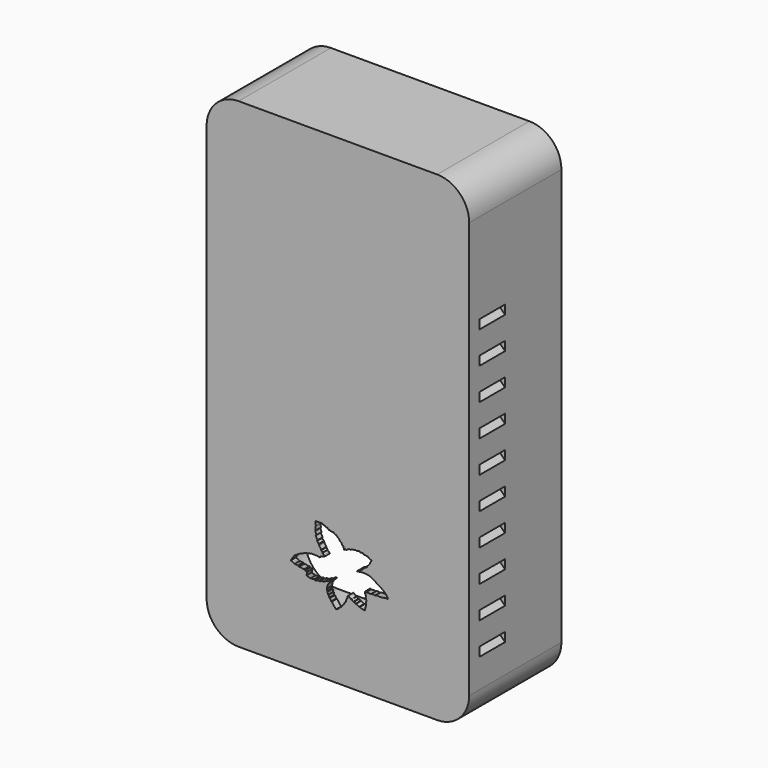
from build123d import *

# Parameters (mm, degrees)
BOX067_W                    = 35
BOX067_H                    = 1.8
BOX067_DEPTH                = 30
PAD_DEPTH                   = 3
BODY_PLACEMENT_ANGLE        = 90
BOX057_W                    = 20
BOX057_H                    = 10
BOX057_DEPTH                = 2
BOX057_PLACEMENT_ANGLE      = 45
BOX058_W                    = 20
BOX058_H                    = 10
BOX058_DEPTH                = 2
BOX058_PLACEMENT_ANGLE      = 45
BOX059_W                    = 20
BOX059_H                    = 10
BOX059_DEPTH                = 2
BOX059_PLACEMENT_ANGLE      = 45
BOX060_W                    = 10
BOX060_H                    = 10
BOX060_DEPTH                = 2
BOX060_PLACEMENT_ANGLE      = 45
BOX061_W                    = 20
BOX061_H                    = 10
BOX061_DEPTH                = 2
BOX061_PLACEMENT_ANGLE      = 45
BOX062_W                    = 20
BOX062_H                    = 10
BOX062_DEPTH                = 2
BOX062_PLACEMENT_ANGLE      = 45
BOX063_W                    = 20
BOX063_H                    = 10
BOX063_DEPTH                = 2
BOX063_PLACEMENT_ANGLE      = 45
BOX064_W                    = 10
BOX064_H                    = 10
BOX064_DEPTH                = 2
BOX064_PLACEMENT_ANGLE      = 45
BOX065_W                    = 20
BOX065_H                    = 10
BOX065_DEPTH                = 2
BOX065_PLACEMENT_ANGLE      = 45
BOX066_W                    = 20
BOX066_H                    = 10
BOX066_DEPTH                = 2
BOX066_PLACEMENT_ANGLE      = 45
BOX056_W                    = 20
BOX056_H                    = 10
BOX056_DEPTH                = 2
BOX056_PLACEMENT_ANGLE      = 45
FUSION037_PLACEMENT_ANGLE   = 180
BOX046_W                    = 20
BOX046_H                    = 10
BOX046_DEPTH                = 2
BOX046_PLACEMENT_ANGLE      = 45
BOX047_W                    = 20
BOX047_H                    = 10
BOX047_DEPTH                = 2
BOX047_PLACEMENT_ANGLE      = 45
BOX048_W                    = 20
BOX048_H                    = 10
BOX048_DEPTH                = 2
BOX048_PLACEMENT_ANGLE      = 45
BOX049_W                    = 10
BOX049_H                    = 10
BOX049_DEPTH                = 2
BOX049_PLACEMENT_ANGLE      = 45
BOX050_W                    = 20
BOX050_H                    = 10
BOX050_DEPTH                = 2
BOX050_PLACEMENT_ANGLE      = 45
BOX051_W                    = 20
BOX051_H                    = 10
BOX051_DEPTH                = 2
BOX051_PLACEMENT_ANGLE      = 45
BOX052_W                    = 20
BOX052_H                    = 10
BOX052_DEPTH                = 2
BOX052_PLACEMENT_ANGLE      = 45
BOX053_W                    = 20
BOX053_H                    = 10
BOX053_DEPTH                = 2
BOX053_PLACEMENT_ANGLE      = 45
BOX054_W                    = 20
BOX054_H                    = 10
BOX054_DEPTH                = 2
BOX054_PLACEMENT_ANGLE      = 45
BOX055_W                    = 20
BOX055_H                    = 10
BOX055_DEPTH                = 2
BOX055_PLACEMENT_ANGLE      = 45
BOX045_W                    = 20
BOX045_H                    = 10
BOX045_DEPTH                = 2
BOX045_PLACEMENT_ANGLE      = 45
BOX043_W                    = 5
BOX043_H                    = 5
BOX043_DEPTH                = 5
CYLINDER081_R               = 1.6
CYLINDER081_DEPTH           = 12
CYLINDER080_R               = 3.5
CYLINDER080_DEPTH           = 12
CYLINDER075_R               = 2.8
CYLINDER075_DEPTH           = 10
CYLINDER074_R               = 5.5
CYLINDER074_DEPTH           = 22
CYLINDER074_ROLL_ANGLE      = 90.312904
CYLINDER074_PITCH_ANGLE     = -60.355913
CYLINDER074_PLACEMENT_ANGLE = 179.461903
CYLINDER077_R               = 2.8
CYLINDER077_DEPTH           = 10
CYLINDER076_R               = 5.5
CYLINDER076_DEPTH           = 22
CYLINDER076_ROLL_ANGLE      = 90
CYLINDER076_PITCH_ANGLE     = -60
CYLINDER076_PLACEMENT_ANGLE = 180
CYLINDER079_R               = 2.8
CYLINDER079_DEPTH           = 10
CYLINDER078_R               = 5.5
CYLINDER078_DEPTH           = 22
CYLINDER078_ROLL_ANGLE      = 90
CYLINDER078_PITCH_ANGLE     = -60
CYLINDER078_PLACEMENT_ANGLE = 180
CYLINDER054_R               = 1.6
CYLINDER054_DEPTH           = 12
CYLINDER055_R               = 1.6
CYLINDER055_DEPTH           = 12
CYLINDER056_R               = 1.6
CYLINDER056_DEPTH           = 12
CYLINDER057_R               = 1.6
CYLINDER057_DEPTH           = 12
CYLINDER058_R               = 1.6
CYLINDER058_DEPTH           = 12
CYLINDER059_R               = 1.6
CYLINDER059_DEPTH           = 12
CYLINDER060_R               = 1.6
CYLINDER060_DEPTH           = 12
CYLINDER061_R               = 1.6
CYLINDER061_DEPTH           = 12
CYLINDER062_R               = 3.5
CYLINDER062_DEPTH           = 12
CYLINDER063_R               = 3.5
CYLINDER063_DEPTH           = 12
CYLINDER064_R               = 3.5
CYLINDER064_DEPTH           = 12
CYLINDER065_R               = 3.5
CYLINDER065_DEPTH           = 12
CYLINDER066_R               = 3.5
CYLINDER066_DEPTH           = 12
CYLINDER067_R               = 3.5
CYLINDER067_DEPTH           = 12
CYLINDER068_R               = 3.5
CYLINDER068_DEPTH           = 12
CYLINDER051_R               = 1.57
CYLINDER051_DEPTH           = 6
CYLINDER050_R               = 5.3
CYLINDER050_DEPTH           = 6
CYLINDER052_W               = 5.3
CYLINDER052_H               = 6
CYLINDER052_ANGLE           = 270
CYLINDER053_W               = 5.3
CYLINDER053_H               = 6
CYLINDER053_ANGLE           = 270
CYLINDER045_W               = 10
CYLINDER045_H               = 34
CYLINDER045_ANGLE           = 90
BOX035_W                    = 10
BOX035_H                    = 34
BOX035_DEPTH                = 10
CUT031_PLACEMENT_ANGLE      = 180
CYLINDER046_W               = 10
CYLINDER046_H               = 34
CYLINDER046_ANGLE           = 90
BOX036_W                    = 10
BOX036_H                    = 34
BOX036_DEPTH                = 10
CUT032_PLACEMENT_ANGLE      = 180
CYLINDER047_W               = 10
CYLINDER047_H               = 34
CYLINDER047_ANGLE           = 90
BOX037_W                    = 10
BOX037_H                    = 34
BOX037_DEPTH                = 10
CUT033_PITCH_ANGLE          = -90
CUT033_PLACEMENT_ANGLE      = -180
CYLINDER044_W               = 10
CYLINDER044_H               = 34
CYLINDER044_ANGLE           = 90
BOX033_W                    = 10
BOX033_H                    = 34
BOX033_DEPTH                = 10
CUT030_PITCH_ANGLE          = 90
CUT030_PLACEMENT_ANGLE      = -180
BOX034_W                    = 78
BOX034_H                    = 34
BOX034_DEPTH                = 146
CYLINDER041_W               = 10
CYLINDER041_H               = 36
CYLINDER041_ANGLE           = 90
BOX030_W                    = 10
BOX030_H                    = 36
BOX030_DEPTH                = 10
CUT026_PLACEMENT_ANGLE      = 180
CYLINDER042_W               = 10
CYLINDER042_H               = 36
CYLINDER042_ANGLE           = 90
BOX031_W                    = 10
BOX031_H                    = 36
BOX031_DEPTH                = 10
CUT027_PLACEMENT_ANGLE      = 180
CYLINDER043_W               = 10
CYLINDER043_H               = 36
CYLINDER043_ANGLE           = 90
BOX032_W                    = 10
BOX032_H                    = 36
BOX032_DEPTH                = 10
CUT028_PITCH_ANGLE          = -90
CUT028_PLACEMENT_ANGLE      = -180
CYLINDER040_W               = 10
CYLINDER040_H               = 36
CYLINDER040_ANGLE           = 90
BOX028_W                    = 10
BOX028_H                    = 36
BOX028_DEPTH                = 10
CUT025_PITCH_ANGLE          = 90
CUT025_PLACEMENT_ANGLE      = -180
BOX029_W                    = 82
BOX029_H                    = 36
BOX029_DEPTH                = 150
CUT035_PLACEMENT_ANGLE      = 180
CYLINDER048_R               = 1.57
CYLINDER048_DEPTH           = 6
CYLINDER049_R               = 5.3
CYLINDER049_DEPTH           = 6
CYLINDER069_R               = 3.5
CYLINDER069_DEPTH           = 12
CYLINDER073_R               = 2.8
CYLINDER073_DEPTH           = 10
CYLINDER072_R               = 5.5
CYLINDER072_DEPTH           = 22
CYLINDER072_ROLL_ANGLE      = 90
CYLINDER072_PITCH_ANGLE     = -60
CYLINDER072_PLACEMENT_ANGLE = 180


with BuildPart() as logobase:
    # Box067 → Box067 (new body)
    with BuildSketch(Plane(origin=(21.5, -44, 15.25), x_dir=(1, 0, 0), z_dir=(0, 0, 1))):
        with Locations((17.5, 0.9)):
            Rectangle(BOX067_W, BOX067_H)
    extrude(amount=BOX067_DEPTH)


with BuildPart() as logo001:
    # Sketch → Pad (new body)
    with BuildSketch(Plane.XY):
        Polygon((-15.066747, -2.987899), (-14.417461, -3.201938), (-14.138643, -3.358095), (-13.867326, -3.550643), (-13.410691, -3.571363), (-13.132099, -3.616994), (-12.816981, -3.623429), (-12.466181, -3.85302), (-11.870388, -3.85302), (-11.520385, -4.008358), (-11.138921, -4.05555), (-10.80982, -4.007881), (-10.571555, -4.299093), (-10.133842, -4.331365), (-9.89036, -4.3898), (-9.995555, -4.876968), (-10.089424, -5.363912), (-10.107024, -5.504714), (-9.778484, -5.639651), (-9.516561, -5.730218), (-9.249311, -5.762288), (-8.928614, -5.901257), (-8.543776, -5.863842), (-7.717882, -5.75845), (-7.372913, -5.972569), (-6.724874, -5.720376), (-6.270657, -5.694814), (-6.062229, -5.804927), (-5.350893, -5.48914), (-5.024015, -5.48914), (-4.801264, -5.531317), (-4.197354, -5.162479), (-3.751908, -4.972515), (-3.377141, -4.972515), (-2.818976, -4.454219), (-2.627606, -4.342587), (-2.151123, -4.357646), (-2.380419, -4.518009), (-3.185771, -5.42702), (-3.613178, -6.058241), (-3.711104, -6.645795), (-3.835143, -7.155008), (-3.758777, -7.508761), (-3.705962, -7.68135), (-3.53967, -7.852018), (-3.468499, -8.65617), (-3.272681, -8.566711), (-3.168228, -8.769092), (-3.070875, -9.320832), (-2.842071, -9.3355), (-2.45193, -10.098182), (-2.249525, -10.130449), (-0.96042, -11.875302), (-0.153326, -11.388908), (0.461347, -10.768889), (0.669802, -10.72613), (1.317242, -9.709977), (1.518256, -9.650808), (1.740221, -9.089367), (2.020942, -9.043669), (2.393061, -7.803274), (2.588394, -7.698711), (2.654196, -7.039452), (2.869633, -6.817487), (3.091598, -6.928469), (3.796664, -7.57478), (3.933761, -7.502968), (4.462561, -7.973012), (4.684525, -7.920785), (5.115399, -8.34513), (5.324308, -8.286375), (6.23668, -8.795643), (6.503619, -8.766309), (7.148016, -9.05537), (8.048827, -9.186133), (8.36847, -7.936621), (8.499233, -7.791329), (8.434769, -6.722055), (8.586207, -6.479883), (8.322964, -5.531781), (8.439835, -5.190909), (8.074257, -4.393068), (8.042361, -4.177775), (8.090203, -3.994378), (8.410305, -4.111031), (8.720134, -4.050195), (9.318169, -4.050195), (9.829643, -4.158874), (10.132648, -3.967503), (10.517489, -3.962302), (10.88308, -3.975359), (11.224485, -4.094309), (11.686072, -3.910075), (12.103889, -3.883962), (12.600047, -3.962302), (13.579306, -3.877433), (14.388827, -3.746865), (14.754416, -3.681581), (15.276689, -3.753394), (15.04319, -3.241373), (14.520919, -2.516721), (14.037817, -1.994449), (13.280153, -1.546255), (13.043842, -1.231174), (12.107354, -0.797939), (11.380431, -0.250878), (10.439567, 0.304889), (9.595256, 0.727998), (8.536237, 0.97306), (7.198999, 0.97306), (5.779317, 0.795578), (5.601857, 0.795578), (5.831776, 0.981815), (6.254031, 1.158201), (6.302136, 1.382691), (7.179873, 1.706855), (7.446816, 1.794377), (7.490577, 2.126962), (8.300576, 2.668386), (8.685751, 2.818538), (8.685751, 3.125373), (8.89508, 3.18684), (9.634921, 4.066021), (9.626381, 4.327431), (10.206841, 5.183136), (9.255181, 5.644445), (9.110202, 5.875968), (8.321324, 5.973361), (8.154661, 6.066253), (7.828613, 6.044872), (7.634715, 6.130877), (7.563913, 6.332674), (6.748318, 6.354958), (6.468188, 6.295259), (6.270422, 6.610614), (5.404532, 6.332674), (5.270907, 6.471644), (4.569418, 6.247245), (4.441608, 6.406517), (3.419502, 5.945882), (3.291921, 6.153201), (2.15964, 5.491375), (2.000163, 5.698694), (1.618501, 5.348278), (1.459844, 5.949736), (1.381651, 6.286506), (1.14534, 6.299634), (0.824344, 6.914785), (0.348522, 7.295443), (0.126706, 7.681261), (-0.415308, 8.181635), (-0.872658, 8.623701), (-1.120738, 8.643287), (-1.793164, 9.119861), (-2.314879, 9.121219), (-2.713213, 9.138457), (-2.884254, 9.341568), (-3.167788, 9.264536), (-3.707386, 9.827964), (-4.049155, 9.7003), (-4.429878, 10.011006), (-4.979099, 10.142511), (-5.430383, 10.448871), (-5.989475, 10.365602), (-7.326053, 10.410839), (-7.252544, 9.132535), (-7.368778, 8.769302), (-7.261404, 7.837619), (-7.411118, 7.604196), (-7.092165, 6.743021), (-7.100138, 6.559623), (-7.29151, 6.384199), (-6.741315, 5.299757), (-6.87495, 5.027319), (-6.315858, 4.420645), (-6.303963, 4.194629), (-6.054155, 4.0043), (-6.185007, 3.956717), (-5.542647, 3.076445), (-5.578333, 2.909907), (-5.126302, 2.410293), (-5.185779, 2.267546), (-4.733747, 1.898783), (-4.424462, 1.589498), (-5.31663, 1.292109), (-5.840036, 1.089884), (-6.04226, 0.792495), (-6.946324, 0.994719), (-7.196131, 0.887659), (-7.814701, 1.042302), (-8.02502, 0.969153), (-8.602671, 1.030419), (-8.834605, 0.872878), (-9.333486, 0.929767), (-9.661695, 0.649695), (-10.324935, 0.649695), (-11.010686, 0.32425), (-11.728333, 0.053139), (-12.297134, -0.13161), (-12.421175, -0.347049), (-13.295985, -0.817096), (-13.922715, -1.241445), (-14.170795, -1.59398), (-14.53862, -2.09216), (-14.783051, -2.457701), align=None)
    extrude(amount=PAD_DEPTH)


with BuildPart() as logo001_1:
    # Body placement: moved
    add(logo001.part.moved(Location((39.35, -43, 30))).rotate(Axis((39.35, -43, 30), (1, 0, 0)), BODY_PLACEMENT_ANGLE))

    # Fusion039: union logoBase
    add(logobase.part)


with BuildPart() as cube048:
    # Box057 → Box057 (new body)
    with BuildSketch(Plane.XY):
        with Locations((10, 5)):
            Rectangle(BOX057_W, BOX057_H)
    extrude(amount=BOX057_DEPTH)


with BuildPart() as cube048_1:
    # Box057 placement: moved
    add(cube048.part.moved(Location((0, 0, 10))).rotate(Axis((0, 0, 10), (0, -1, 0)), BOX057_PLACEMENT_ANGLE))


with BuildPart() as cube049:
    # Box058 → Box058 (new body)
    with BuildSketch(Plane.XY):
        with Locations((10, 5)):
            Rectangle(BOX058_W, BOX058_H)
    extrude(amount=BOX058_DEPTH)


with BuildPart() as cube049_1:
    # Box058 placement: moved
    add(cube049.part.moved(Location((0, 0, 20))).rotate(Axis((0, 0, 20), (0, -1, 0)), BOX058_PLACEMENT_ANGLE))


with BuildPart() as cube050:
    # Box059 → Box059 (new body)
    with BuildSketch(Plane.XY):
        with Locations((10, 5)):
            Rectangle(BOX059_W, BOX059_H)
    extrude(amount=BOX059_DEPTH)


with BuildPart() as cube050_1:
    # Box059 placement: moved
    add(cube050.part.moved(Location((0, 0, 30))).rotate(Axis((0, 0, 30), (0, -1, 0)), BOX059_PLACEMENT_ANGLE))


with BuildPart() as cube051:
    # Box060 → Box060 (new body)
    with BuildSketch(Plane.XY):
        with Locations((5, 5)):
            Rectangle(BOX060_W, BOX060_H)
    extrude(amount=BOX060_DEPTH)


with BuildPart() as cube051_1:
    # Box060 placement: moved
    add(cube051.part.moved(Location((0, 0, 40))).rotate(Axis((0, 0, 40), (0, -1, 0)), BOX060_PLACEMENT_ANGLE))


with BuildPart() as cube052:
    # Box061 → Box061 (new body)
    with BuildSketch(Plane.XY):
        with Locations((10, 5)):
            Rectangle(BOX061_W, BOX061_H)
    extrude(amount=BOX061_DEPTH)


with BuildPart() as cube052_1:
    # Box061 placement: moved
    add(cube052.part.moved(Location((0, 0, 50))).rotate(Axis((0, 0, 50), (0, -1, 0)), BOX061_PLACEMENT_ANGLE))


with BuildPart() as cube053:
    # Box062 → Box062 (new body)
    with BuildSketch(Plane.XY):
        with Locations((10, 5)):
            Rectangle(BOX062_W, BOX062_H)
    extrude(amount=BOX062_DEPTH)


with BuildPart() as cube053_1:
    # Box062 placement: moved
    add(cube053.part.moved(Location((0, 0, 60))).rotate(Axis((0, 0, 60), (0, -1, 0)), BOX062_PLACEMENT_ANGLE))


with BuildPart() as cube054:
    # Box063 → Box063 (new body)
    with BuildSketch(Plane.XY):
        with Locations((10, 5)):
            Rectangle(BOX063_W, BOX063_H)
    extrude(amount=BOX063_DEPTH)


with BuildPart() as cube054_1:
    # Box063 placement: moved
    add(cube054.part.moved(Location((0, 0, 70))).rotate(Axis((0, 0, 70), (0, -1, 0)), BOX063_PLACEMENT_ANGLE))


with BuildPart() as cube055:
    # Box064 → Box064 (new body)
    with BuildSketch(Plane.XY):
        with Locations((5, 5)):
            Rectangle(BOX064_W, BOX064_H)
    extrude(amount=BOX064_DEPTH)


with BuildPart() as cube055_1:
    # Box064 placement: moved
    add(cube055.part.moved(Location((0, 0, 80))).rotate(Axis((0, 0, 80), (0, -1, 0)), BOX064_PLACEMENT_ANGLE))


with BuildPart() as cube056:
    # Box065 → Box065 (new body)
    with BuildSketch(Plane.XY):
        with Locations((10, 5)):
            Rectangle(BOX065_W, BOX065_H)
    extrude(amount=BOX065_DEPTH)


with BuildPart() as cube056_1:
    # Box065 placement: moved
    add(cube056.part.moved(Location((0, 0, 90))).rotate(Axis((0, 0, 90), (0, -1, 0)), BOX065_PLACEMENT_ANGLE))


with BuildPart() as cube057:
    # Box066 → Box066 (new body)
    with BuildSketch(Plane.XY):
        with Locations((10, 5)):
            Rectangle(BOX066_W, BOX066_H)
    extrude(amount=BOX066_DEPTH)


with BuildPart() as cube057_1:
    # Box066 placement: moved
    add(cube057.part.moved(Location((0, 0, 1000))).rotate(Axis((0, 0, 1000), (0, -1, 0)), BOX066_PLACEMENT_ANGLE))


with BuildPart() as fusion037:
    # Box056 → Box056 (new body)
    with BuildSketch(Plane.XY):
        with Locations((10, 5)):
            Rectangle(BOX056_W, BOX056_H)
    extrude(amount=BOX056_DEPTH)


with BuildPart() as fusion037_1:
    # Box056 placement: moved
    add(fusion037.part.rotate(Axis((0, 0, 0), (0, -1, 0)), BOX056_PLACEMENT_ANGLE))

    # Fusion037: union Cube048, Cube049, Cube050, Cube051, Cube052, Cube053, Cube054, Cube055, Cube056, Cube057
    add(cube048_1.part)
    add(cube049_1.part)
    add(cube050_1.part)
    add(cube051_1.part)
    add(cube052_1.part)
    add(cube053_1.part)
    add(cube054_1.part)
    add(cube055_1.part)
    add(cube056_1.part)
    add(cube057_1.part)


with BuildPart() as fusion037_2:
    # Fusion037 placement: moved
    add(fusion037_1.part.moved(Location((82, 0, 15))).rotate(Axis((82, 0, 15), (0, 0, 1)), FUSION037_PLACEMENT_ANGLE))


with BuildPart() as cube037:
    # Box046 → Box046 (new body)
    with BuildSketch(Plane.XY):
        with Locations((10, 5)):
            Rectangle(BOX046_W, BOX046_H)
    extrude(amount=BOX046_DEPTH)


with BuildPart() as cube037_1:
    # Box046 placement: moved
    add(cube037.part.moved(Location((0, 0, 10))).rotate(Axis((0, 0, 10), (0, -1, 0)), BOX046_PLACEMENT_ANGLE))


with BuildPart() as cube038:
    # Box047 → Box047 (new body)
    with BuildSketch(Plane.XY):
        with Locations((10, 5)):
            Rectangle(BOX047_W, BOX047_H)
    extrude(amount=BOX047_DEPTH)


with BuildPart() as cube038_1:
    # Box047 placement: moved
    add(cube038.part.moved(Location((0, 0, 20))).rotate(Axis((0, 0, 20), (0, -1, 0)), BOX047_PLACEMENT_ANGLE))


with BuildPart() as cube039:
    # Box048 → Box048 (new body)
    with BuildSketch(Plane.XY):
        with Locations((10, 5)):
            Rectangle(BOX048_W, BOX048_H)
    extrude(amount=BOX048_DEPTH)


with BuildPart() as cube039_1:
    # Box048 placement: moved
    add(cube039.part.moved(Location((0, 0, 30))).rotate(Axis((0, 0, 30), (0, -1, 0)), BOX048_PLACEMENT_ANGLE))


with BuildPart() as cube040:
    # Box049 → Box049 (new body)
    with BuildSketch(Plane.XY):
        with Locations((5, 5)):
            Rectangle(BOX049_W, BOX049_H)
    extrude(amount=BOX049_DEPTH)


with BuildPart() as cube040_1:
    # Box049 placement: moved
    add(cube040.part.moved(Location((0, 0, 40))).rotate(Axis((0, 0, 40), (0, -1, 0)), BOX049_PLACEMENT_ANGLE))


with BuildPart() as cube041:
    # Box050 → Box050 (new body)
    with BuildSketch(Plane.XY):
        with Locations((10, 5)):
            Rectangle(BOX050_W, BOX050_H)
    extrude(amount=BOX050_DEPTH)


with BuildPart() as cube041_1:
    # Box050 placement: moved
    add(cube041.part.moved(Location((0, 0, 50))).rotate(Axis((0, 0, 50), (0, -1, 0)), BOX050_PLACEMENT_ANGLE))


with BuildPart() as cube042:
    # Box051 → Box051 (new body)
    with BuildSketch(Plane.XY):
        with Locations((10, 5)):
            Rectangle(BOX051_W, BOX051_H)
    extrude(amount=BOX051_DEPTH)


with BuildPart() as cube042_1:
    # Box051 placement: moved
    add(cube042.part.moved(Location((0, 0, 60))).rotate(Axis((0, 0, 60), (0, -1, 0)), BOX051_PLACEMENT_ANGLE))


with BuildPart() as cube043:
    # Box052 → Box052 (new body)
    with BuildSketch(Plane.XY):
        with Locations((10, 5)):
            Rectangle(BOX052_W, BOX052_H)
    extrude(amount=BOX052_DEPTH)


with BuildPart() as cube043_1:
    # Box052 placement: moved
    add(cube043.part.moved(Location((0, 0, 70))).rotate(Axis((0, 0, 70), (0, -1, 0)), BOX052_PLACEMENT_ANGLE))


with BuildPart() as cube044:
    # Box053 → Box053 (new body)
    with BuildSketch(Plane.XY):
        with Locations((10, 5)):
            Rectangle(BOX053_W, BOX053_H)
    extrude(amount=BOX053_DEPTH)


with BuildPart() as cube044_1:
    # Box053 placement: moved
    add(cube044.part.moved(Location((0, 0, 80))).rotate(Axis((0, 0, 80), (0, -1, 0)), BOX053_PLACEMENT_ANGLE))


with BuildPart() as cube045:
    # Box054 → Box054 (new body)
    with BuildSketch(Plane.XY):
        with Locations((10, 5)):
            Rectangle(BOX054_W, BOX054_H)
    extrude(amount=BOX054_DEPTH)


with BuildPart() as cube045_1:
    # Box054 placement: moved
    add(cube045.part.moved(Location((0, 0, 90))).rotate(Axis((0, 0, 90), (0, -1, 0)), BOX054_PLACEMENT_ANGLE))


with BuildPart() as cube046:
    # Box055 → Box055 (new body)
    with BuildSketch(Plane.XY):
        with Locations((10, 5)):
            Rectangle(BOX055_W, BOX055_H)
    extrude(amount=BOX055_DEPTH)


with BuildPart() as cube046_1:
    # Box055 placement: moved
    add(cube046.part.moved(Location((0, 0, 1000))).rotate(Axis((0, 0, 1000), (0, -1, 0)), BOX055_PLACEMENT_ANGLE))


with BuildPart() as vents:
    # Box045 → Box045 (new body)
    with BuildSketch(Plane.XY):
        with Locations((10, 5)):
            Rectangle(BOX045_W, BOX045_H)
    extrude(amount=BOX045_DEPTH)


with BuildPart() as vents_1:
    # Box045 placement: moved
    add(vents.part.rotate(Axis((0, 0, 0), (0, -1, 0)), BOX045_PLACEMENT_ANGLE))

    # Fusion036: union Cube037, Cube038, Cube039, Cube040, Cube041, Cube042, Cube043, Cube044, Cube045, Cube046
    add(cube037_1.part)
    add(cube038_1.part)
    add(cube039_1.part)
    add(cube040_1.part)
    add(cube041_1.part)
    add(cube042_1.part)
    add(cube043_1.part)
    add(cube044_1.part)
    add(cube045_1.part)
    add(cube046_1.part)


with BuildPart() as vents_2:
    # Fusion036 placement: moved
    add(vents_1.part.moved(Location((-4, -10, 15))))

    # Fusion038: union Fusion037
    add(fusion037_2.part)


with BuildPart() as vents_3:
    # Fusion038 placement: moved
    add(vents_2.part.moved(Location((0, -32, 0))))


with BuildPart() as lightcut:
    # Box043 → Box043 (new body)
    with BuildSketch(Plane(origin=(54.5, -16, -6), x_dir=(1, 0, 0), z_dir=(0, 0, 1))):
        with Locations((2.5, 2.5)):
            Rectangle(BOX043_W, BOX043_H)
    extrude(amount=BOX043_DEPTH)


with BuildPart() as m2heatset009:
    # Cylinder081 → Cylinder081 (new body)
    with BuildSketch(Plane(origin=(8, -44, 67.1), x_dir=(1, 0, 0), z_dir=(0, 1, 0))):
        Circle(CYLINDER081_R)
    extrude(amount=CYLINDER081_DEPTH)


with BuildPart() as m2heatset010:
    # Cylinder080 → Cylinder080 (new body)
    with BuildSketch(Plane(origin=(8, -44, 67.1), x_dir=(1, 0, 0), z_dir=(0, 1, 0))):
        Circle(CYLINDER080_R)
    extrude(amount=CYLINDER080_DEPTH)

    # Cut043: cut m2HeatSet009
    add(m2heatset009.part, mode=Mode.SUBTRACT)


with BuildPart() as m4heatsetcut001:
    # Cylinder075 → Cylinder075 (new body)
    with BuildSketch(Plane(origin=(4.5, -32, 141.5), x_dir=(1, 0, 0), z_dir=(0, 1, 0))):
        Circle(CYLINDER075_R)
    extrude(amount=CYLINDER075_DEPTH)


with BuildPart() as m4heatsetholes001:
    # Cylinder074 → Cylinder074 (new body)
    with BuildSketch(Plane.XY):
        Circle(CYLINDER074_R)
    extrude(amount=CYLINDER074_DEPTH)


with BuildPart() as m4heatsetholes001_1:
    # Cylinder074 roll: moved
    add(m4heatsetholes001.part.rotate(Axis((0, 0, 0), (1, 0, 0)), CYLINDER074_ROLL_ANGLE))


with BuildPart() as m4heatsetholes001_2:
    # Cylinder074 pitch: moved
    add(m4heatsetholes001_1.part.rotate(Axis((0, 0, 0), (0, 1, 0)), CYLINDER074_PITCH_ANGLE))


with BuildPart() as m4heatsetholes001_3:
    # Cylinder074 placement: moved
    add(m4heatsetholes001_2.part.moved(Location((4.5, -44, 141.5))).rotate(Axis((4.5, -44, 141.5), (0, 0, 1)), CYLINDER074_PLACEMENT_ANGLE))

    # Cut040: cut m4HeatSetCut001
    add(m4heatsetcut001.part, mode=Mode.SUBTRACT)


with BuildPart() as m4heatsetholes001_4:
    # Cut040 placement: moved
    add(m4heatsetholes001_3.part.moved(Location((68.5, 0, -0.5))))


with BuildPart() as m4heatsetcut002:
    # Cylinder077 → Cylinder077 (new body)
    with BuildSketch(Plane(origin=(4.5, -32, 141.5), x_dir=(1, 0, 0), z_dir=(0, 1, 0))):
        Circle(CYLINDER077_R)
    extrude(amount=CYLINDER077_DEPTH)


with BuildPart() as m4heatsetholes002:
    # Cylinder076 → Cylinder076 (new body)
    with BuildSketch(Plane.XY):
        Circle(CYLINDER076_R)
    extrude(amount=CYLINDER076_DEPTH)


with BuildPart() as m4heatsetholes002_1:
    # Cylinder076 roll: moved
    add(m4heatsetholes002.part.rotate(Axis((0, 0, 0), (1, 0, 0)), CYLINDER076_ROLL_ANGLE))


with BuildPart() as m4heatsetholes002_2:
    # Cylinder076 pitch: moved
    add(m4heatsetholes002_1.part.rotate(Axis((0, 0, 0), (0, 1, 0)), CYLINDER076_PITCH_ANGLE))


with BuildPart() as m4heatsetholes002_3:
    # Cylinder076 placement: moved
    add(m4heatsetholes002_2.part.moved(Location((4.5, -44, 141.5))).rotate(Axis((4.5, -44, 141.5), (0, 0, 1)), CYLINDER076_PLACEMENT_ANGLE))

    # Cut041: cut m4HeatSetCut002
    add(m4heatsetcut002.part, mode=Mode.SUBTRACT)


with BuildPart() as m4heatsetholes002_4:
    # Cut041 placement: moved
    add(m4heatsetholes002_3.part.moved(Location((0.5, 0, -136.5))))


with BuildPart() as m4heatsetcut003:
    # Cylinder079 → Cylinder079 (new body)
    with BuildSketch(Plane(origin=(4.5, -32, 141.5), x_dir=(1, 0, 0), z_dir=(0, 1, 0))):
        Circle(CYLINDER079_R)
    extrude(amount=CYLINDER079_DEPTH)


with BuildPart() as m4heatsetholes003:
    # Cylinder078 → Cylinder078 (new body)
    with BuildSketch(Plane.XY):
        Circle(CYLINDER078_R)
    extrude(amount=CYLINDER078_DEPTH)


with BuildPart() as m4heatsetholes003_1:
    # Cylinder078 roll: moved
    add(m4heatsetholes003.part.rotate(Axis((0, 0, 0), (1, 0, 0)), CYLINDER078_ROLL_ANGLE))


with BuildPart() as m4heatsetholes003_2:
    # Cylinder078 pitch: moved
    add(m4heatsetholes003_1.part.rotate(Axis((0, 0, 0), (0, 1, 0)), CYLINDER078_PITCH_ANGLE))


with BuildPart() as m4heatsetholes003_3:
    # Cylinder078 placement: moved
    add(m4heatsetholes003_2.part.moved(Location((4.5, -44, 141.5))).rotate(Axis((4.5, -44, 141.5), (0, 0, 1)), CYLINDER078_PLACEMENT_ANGLE))

    # Cut042: cut m4HeatSetCut003
    add(m4heatsetcut003.part, mode=Mode.SUBTRACT)


with BuildPart() as m4heatsetholes003_4:
    # Cut042 placement: moved
    add(m4heatsetholes003_3.part.moved(Location((68.5, 0, -136.5))))


with BuildPart() as m2heatset001:
    # Cylinder054 → Cylinder054 (new body)
    with BuildSketch(Plane(origin=(8, -44, 67.1), x_dir=(1, 0, 0), z_dir=(0, 1, 0))):
        Circle(CYLINDER054_R)
    extrude(amount=CYLINDER054_DEPTH)


with BuildPart() as m2heatset002:
    # Cylinder055 → Cylinder055 (new body)
    with BuildSketch(Plane(origin=(28, -44, 67.1), x_dir=(1, 0, 0), z_dir=(0, 1, 0))):
        Circle(CYLINDER055_R)
    extrude(amount=CYLINDER055_DEPTH)


with BuildPart() as m2heatset003:
    # Cylinder056 → Cylinder056 (new body)
    with BuildSketch(Plane(origin=(68, -44, 67.1), x_dir=(1, 0, 0), z_dir=(0, 1, 0))):
        Circle(CYLINDER056_R)
    extrude(amount=CYLINDER056_DEPTH)


with BuildPart() as m2heatset004:
    # Cylinder057 → Cylinder057 (new body)
    with BuildSketch(Plane(origin=(18.2, -44, 97), x_dir=(1, 0, 0), z_dir=(0, 1, 0))):
        Circle(CYLINDER057_R)
    extrude(amount=CYLINDER057_DEPTH)


with BuildPart() as m2heatset005:
    # Cylinder058 → Cylinder058 (new body)
    with BuildSketch(Plane(origin=(28, -44, 87), x_dir=(1, 0, 0), z_dir=(0, 1, 0))):
        Circle(CYLINDER058_R)
    extrude(amount=CYLINDER058_DEPTH)


with BuildPart() as m2heatset006:
    # Cylinder059 → Cylinder059 (new body)
    with BuildSketch(Plane(origin=(38, -44, 117), x_dir=(1, 0, 0), z_dir=(0, 1, 0))):
        Circle(CYLINDER059_R)
    extrude(amount=CYLINDER059_DEPTH)


with BuildPart() as m2heatset007:
    # Cylinder060 → Cylinder060 (new body)
    with BuildSketch(Plane(origin=(38, -44, 57), x_dir=(1, 0, 0), z_dir=(0, 1, 0))):
        Circle(CYLINDER060_R)
    extrude(amount=CYLINDER060_DEPTH)


with BuildPart() as m2heatset008:
    # Cylinder061 → Cylinder061 (new body)
    with BuildSketch(Plane(origin=(68, -44, 107), x_dir=(1, 0, 0), z_dir=(0, 1, 0))):
        Circle(CYLINDER061_R)
    extrude(amount=CYLINDER061_DEPTH)


with BuildPart() as m2heatsetcuts:
    # Cylinder062 → Cylinder062 (new body)
    with BuildSketch(Plane(origin=(8, -44, 67.1), x_dir=(1, 0, 0), z_dir=(0, 1, 0))):
        Circle(CYLINDER062_R)
    extrude(amount=CYLINDER062_DEPTH)

    # Fusion021: union m2HeatSet001, m2HeatSet002, m2HeatSet003, m2HeatSet004, m2HeatSet005, m2HeatSet006, m2HeatSet007, m2HeatSet008
    add(m2heatset001.part)
    add(m2heatset002.part)
    add(m2heatset003.part)
    add(m2heatset004.part)
    add(m2heatset005.part)
    add(m2heatset006.part)
    add(m2heatset007.part)
    add(m2heatset008.part)


with BuildPart() as obj1:
    # Cylinder063 → Cylinder063 (new body)
    with BuildSketch(Plane(origin=(28, -44, 67.1), x_dir=(1, 0, 0), z_dir=(0, 1, 0))):
        Circle(CYLINDER063_R)
    extrude(amount=CYLINDER063_DEPTH)


with BuildPart() as obj2:
    # Cylinder064 → Cylinder064 (new body)
    with BuildSketch(Plane(origin=(18.2, -44, 97), x_dir=(1, 0, 0), z_dir=(0, 1, 0))):
        Circle(CYLINDER064_R)
    extrude(amount=CYLINDER064_DEPTH)


with BuildPart() as obj3:
    # Cylinder065 → Cylinder065 (new body)
    with BuildSketch(Plane(origin=(68, -44, 67.1), x_dir=(1, 0, 0), z_dir=(0, 1, 0))):
        Circle(CYLINDER065_R)
    extrude(amount=CYLINDER065_DEPTH)


with BuildPart() as obj4:
    # Cylinder066 → Cylinder066 (new body)
    with BuildSketch(Plane(origin=(28, -44, 87), x_dir=(1, 0, 0), z_dir=(0, 1, 0))):
        Circle(CYLINDER066_R)
    extrude(amount=CYLINDER066_DEPTH)


with BuildPart() as obj5:
    # Cylinder067 → Cylinder067 (new body)
    with BuildSketch(Plane(origin=(38, -44, 57), x_dir=(1, 0, 0), z_dir=(0, 1, 0))):
        Circle(CYLINDER067_R)
    extrude(amount=CYLINDER067_DEPTH)


with BuildPart() as obj6:
    # Cylinder068 → Cylinder068 (new body)
    with BuildSketch(Plane(origin=(68, -44, 107), x_dir=(1, 0, 0), z_dir=(0, 1, 0))):
        Circle(CYLINDER068_R)
    extrude(amount=CYLINDER068_DEPTH)


with BuildPart() as cylinder051:
    # Cylinder051 → Cylinder051 (new body)
    with BuildSketch(Plane(origin=(59.6, -44, 48.15), x_dir=(1, 0, 0), z_dir=(0, 1, 0))):
        Circle(CYLINDER051_R)
    extrude(amount=CYLINDER051_DEPTH)


with BuildPart() as cut037:
    # Cylinder050 → Cylinder050 (new body)
    with BuildSketch(Plane(origin=(62.1, -44, 50.65), x_dir=(0, 0, -1), z_dir=(0, 1, 0))):
        Circle(CYLINDER050_R)
    extrude(amount=CYLINDER050_DEPTH)

    # Cut037: cut Cylinder051
    add(cylinder051.part, mode=Mode.SUBTRACT)


with BuildPart() as cylinder052:
    # Cylinder052 → Cylinder052 (revolve)
    with BuildSketch(Plane(origin=(15, -38, 7.55), x_dir=(1, 0, 0), z_dir=(0, 0, 1))):
        with Locations((2.65, 3)):
            Rectangle(CYLINDER052_W, CYLINDER052_H)
    revolve(axis=Axis((15, -38, 7.55), (0, 1, 0)), revolution_arc=CYLINDER052_ANGLE)


with BuildPart() as cylinder053:
    # Cylinder053 → Cylinder053 (revolve)
    with BuildSketch(Plane(origin=(62.1, -38, 50.65), x_dir=(-1, 0, 0), z_dir=(0, 0, -1))):
        with Locations((2.65, 3)):
            Rectangle(CYLINDER053_W, CYLINDER053_H)
    revolve(axis=Axis((62.1, -38, 50.65), (0, 1, 0)), revolution_arc=CYLINDER053_ANGLE)


with BuildPart() as cylinder045:
    # Cylinder045 → Cylinder045 (revolve)
    with BuildSketch(Plane(origin=(0, 26, 0), x_dir=(1, 0, 0), z_dir=(0, 0, -1))):
        with Locations((5, 17)):
            Rectangle(CYLINDER045_W, CYLINDER045_H)
    revolve(axis=Axis((0, 26, 0), (0, -1, 0)), revolution_arc=CYLINDER045_ANGLE)


with BuildPart() as cut031:
    # Box035 → Box035 (new body)
    with BuildSketch(Plane(origin=(0, -8, 0), x_dir=(1, 0, 0), z_dir=(0, 0, 1))):
        with Locations((5, 17)):
            Rectangle(BOX035_W, BOX035_H)
    extrude(amount=BOX035_DEPTH)

    # Cut031: cut Cylinder045
    add(cylinder045.part, mode=Mode.SUBTRACT)


with BuildPart() as cut031_1:
    # Cut031 placement: moved
    add(cut031.part.moved(Location((70, 18, 8))).rotate(Axis((70, 18, 8), (1, 0, 0)), CUT031_PLACEMENT_ANGLE))


with BuildPart() as cylinder046:
    # Cylinder046 → Cylinder046 (revolve)
    with BuildSketch(Plane(origin=(0, 26, 0), x_dir=(1, 0, 0), z_dir=(0, 0, -1))):
        with Locations((5, 17)):
            Rectangle(CYLINDER046_W, CYLINDER046_H)
    revolve(axis=Axis((0, 26, 0), (0, -1, 0)), revolution_arc=CYLINDER046_ANGLE)


with BuildPart() as cut032:
    # Box036 → Box036 (new body)
    with BuildSketch(Plane(origin=(0, -8, 0), x_dir=(1, 0, 0), z_dir=(0, 0, 1))):
        with Locations((5, 17)):
            Rectangle(BOX036_W, BOX036_H)
    extrude(amount=BOX036_DEPTH)

    # Cut032: cut Cylinder046
    add(cylinder046.part, mode=Mode.SUBTRACT)


with BuildPart() as cut032_1:
    # Cut032 placement: moved
    add(cut032.part.moved(Location((12, 18, 134))).rotate(Axis((12, 18, 134), (0, 0, 1)), CUT032_PLACEMENT_ANGLE))


with BuildPart() as cylinder047:
    # Cylinder047 → Cylinder047 (revolve)
    with BuildSketch(Plane(origin=(0, 26, 0), x_dir=(1, 0, 0), z_dir=(0, 0, -1))):
        with Locations((5, 17)):
            Rectangle(CYLINDER047_W, CYLINDER047_H)
    revolve(axis=Axis((0, 26, 0), (0, -1, 0)), revolution_arc=CYLINDER047_ANGLE)


with BuildPart() as cut033:
    # Box037 → Box037 (new body)
    with BuildSketch(Plane(origin=(0, -8, 0), x_dir=(1, 0, 0), z_dir=(0, 0, 1))):
        with Locations((5, 17)):
            Rectangle(BOX037_W, BOX037_H)
    extrude(amount=BOX037_DEPTH)

    # Cut033: cut Cylinder047
    add(cylinder047.part, mode=Mode.SUBTRACT)


with BuildPart() as cut033_1:
    # Cut033 pitch: moved
    add(cut033.part.rotate(Axis((0, 0, 0), (0, 1, 0)), CUT033_PITCH_ANGLE))


with BuildPart() as cut033_2:
    # Cut033 placement: moved
    add(cut033_1.part.moved(Location((70, 18, 134))).rotate(Axis((70, 18, 134), (0, 0, 1)), CUT033_PLACEMENT_ANGLE))


with BuildPart() as cylinder044:
    # Cylinder044 → Cylinder044 (revolve)
    with BuildSketch(Plane(origin=(0, 26, 0), x_dir=(1, 0, 0), z_dir=(0, 0, -1))):
        with Locations((5, 17)):
            Rectangle(CYLINDER044_W, CYLINDER044_H)
    revolve(axis=Axis((0, 26, 0), (0, -1, 0)), revolution_arc=CYLINDER044_ANGLE)


with BuildPart() as fusion018:
    # Box033 → Box033 (new body)
    with BuildSketch(Plane(origin=(0, -8, 0), x_dir=(1, 0, 0), z_dir=(0, 0, 1))):
        with Locations((5, 17)):
            Rectangle(BOX033_W, BOX033_H)
    extrude(amount=BOX033_DEPTH)

    # Cut030: cut Cylinder044
    add(cylinder044.part, mode=Mode.SUBTRACT)


with BuildPart() as fusion018_1:
    # Cut030 pitch: moved
    add(fusion018.part.rotate(Axis((0, 0, 0), (0, 1, 0)), CUT030_PITCH_ANGLE))


with BuildPart() as fusion018_2:
    # Cut030 placement: moved
    add(fusion018_1.part.moved(Location((12, 18, 8))).rotate(Axis((12, 18, 8), (0, 0, 1)), CUT030_PLACEMENT_ANGLE))

    # Fusion018: union Cut031, Cut032, Cut033
    add(cut031_1.part)
    add(cut032_1.part)
    add(cut033_2.part)


with BuildPart() as obj7:
    # Box034 → Box034 (new body)
    with BuildSketch(Plane(origin=(80, 26, -2), x_dir=(-1, 0, 0), z_dir=(0, 0, 1))):
        with Locations((39, 17)):
            Rectangle(BOX034_W, BOX034_H)
    extrude(amount=BOX034_DEPTH)

    # Cut034: cut Fusion018
    add(fusion018_2.part, mode=Mode.SUBTRACT)


with BuildPart() as obj7_1:
    # Cut034 placement: moved
    add(obj7.part.moved(Location((-2, -2, 2))))


with BuildPart() as cylinder041:
    # Cylinder041 → Cylinder041 (revolve)
    with BuildSketch(Plane(origin=(0, 26, 0), x_dir=(1, 0, 0), z_dir=(0, 0, -1))):
        with Locations((5, 18)):
            Rectangle(CYLINDER041_W, CYLINDER041_H)
    revolve(axis=Axis((0, 26, 0), (0, -1, 0)), revolution_arc=CYLINDER041_ANGLE)


with BuildPart() as cut026:
    # Box030 → Box030 (new body)
    with BuildSketch(Plane(origin=(0, -10, 0), x_dir=(1, 0, 0), z_dir=(0, 0, 1))):
        with Locations((5, 18)):
            Rectangle(BOX030_W, BOX030_H)
    extrude(amount=BOX030_DEPTH)

    # Cut026: cut Cylinder041
    add(cylinder041.part, mode=Mode.SUBTRACT)


with BuildPart() as cut026_1:
    # Cut026 placement: moved
    add(cut026.part.moved(Location((70, 18, 8))).rotate(Axis((70, 18, 8), (1, 0, 0)), CUT026_PLACEMENT_ANGLE))


with BuildPart() as cylinder042:
    # Cylinder042 → Cylinder042 (revolve)
    with BuildSketch(Plane(origin=(0, 26, 0), x_dir=(1, 0, 0), z_dir=(0, 0, -1))):
        with Locations((5, 18)):
            Rectangle(CYLINDER042_W, CYLINDER042_H)
    revolve(axis=Axis((0, 26, 0), (0, -1, 0)), revolution_arc=CYLINDER042_ANGLE)


with BuildPart() as cut027:
    # Box031 → Box031 (new body)
    with BuildSketch(Plane(origin=(0, -10, 0), x_dir=(1, 0, 0), z_dir=(0, 0, 1))):
        with Locations((5, 18)):
            Rectangle(BOX031_W, BOX031_H)
    extrude(amount=BOX031_DEPTH)

    # Cut027: cut Cylinder042
    add(cylinder042.part, mode=Mode.SUBTRACT)


with BuildPart() as cut027_1:
    # Cut027 placement: moved
    add(cut027.part.moved(Location((8, 18, 138))).rotate(Axis((8, 18, 138), (0, 0, 1)), CUT027_PLACEMENT_ANGLE))


with BuildPart() as cylinder043:
    # Cylinder043 → Cylinder043 (revolve)
    with BuildSketch(Plane(origin=(0, 26, 0), x_dir=(1, 0, 0), z_dir=(0, 0, -1))):
        with Locations((5, 18)):
            Rectangle(CYLINDER043_W, CYLINDER043_H)
    revolve(axis=Axis((0, 26, 0), (0, -1, 0)), revolution_arc=CYLINDER043_ANGLE)


with BuildPart() as cut028:
    # Box032 → Box032 (new body)
    with BuildSketch(Plane(origin=(0, -10, 0), x_dir=(1, 0, 0), z_dir=(0, 0, 1))):
        with Locations((5, 18)):
            Rectangle(BOX032_W, BOX032_H)
    extrude(amount=BOX032_DEPTH)

    # Cut028: cut Cylinder043
    add(cylinder043.part, mode=Mode.SUBTRACT)


with BuildPart() as cut028_1:
    # Cut028 pitch: moved
    add(cut028.part.rotate(Axis((0, 0, 0), (0, 1, 0)), CUT028_PITCH_ANGLE))


with BuildPart() as cut028_2:
    # Cut028 placement: moved
    add(cut028_1.part.moved(Location((70, 18, 138))).rotate(Axis((70, 18, 138), (0, 0, 1)), CUT028_PLACEMENT_ANGLE))


with BuildPart() as cylinder040:
    # Cylinder040 → Cylinder040 (revolve)
    with BuildSketch(Plane(origin=(0, 26, 0), x_dir=(1, 0, 0), z_dir=(0, 0, -1))):
        with Locations((5, 18)):
            Rectangle(CYLINDER040_W, CYLINDER040_H)
    revolve(axis=Axis((0, 26, 0), (0, -1, 0)), revolution_arc=CYLINDER040_ANGLE)


with BuildPart() as fusion017:
    # Box028 → Box028 (new body)
    with BuildSketch(Plane(origin=(0, -10, 0), x_dir=(1, 0, 0), z_dir=(0, 0, 1))):
        with Locations((5, 18)):
            Rectangle(BOX028_W, BOX028_H)
    extrude(amount=BOX028_DEPTH)

    # Cut025: cut Cylinder040
    add(cylinder040.part, mode=Mode.SUBTRACT)


with BuildPart() as fusion017_1:
    # Cut025 pitch: moved
    add(fusion017.part.rotate(Axis((0, 0, 0), (0, 1, 0)), CUT025_PITCH_ANGLE))


with BuildPart() as fusion017_2:
    # Cut025 placement: moved
    add(fusion017_1.part.moved(Location((8, 18, 8))).rotate(Axis((8, 18, 8), (0, 0, 1)), CUT025_PLACEMENT_ANGLE))

    # Fusion017: union Cut026, Cut027, Cut028
    add(cut026_1.part)
    add(cut027_1.part)
    add(cut028_2.part)


with BuildPart() as fusion017_3:
    # Fusion017 placement: moved
    add(fusion017_2.part.moved(Location((0, -2, 0))))


with BuildPart() as basetop:
    # Box029 → Box029 (new body)
    with BuildSketch(Plane(origin=(80, 26, -2), x_dir=(-1, 0, 0), z_dir=(0, 0, 1))):
        with Locations((41, 18)):
            Rectangle(BOX029_W, BOX029_H)
    extrude(amount=BOX029_DEPTH)

    # Cut029: cut Fusion017
    add(fusion017_3.part, mode=Mode.SUBTRACT)

    # Cut035: cut obj7
    add(obj7_1.part, mode=Mode.SUBTRACT)


with BuildPart() as basetop_1:
    # Cut035 placement: moved
    add(basetop.part.moved(Location((78, -20, 0))).rotate(Axis((78, -20, 0), (0, 0, 1)), CUT035_PLACEMENT_ANGLE))


with BuildPart() as cylinder048:
    # Cylinder048 → Cylinder048 (new body)
    with BuildSketch(Plane(origin=(17.5, -44, 10.05), x_dir=(1, 0, 0), z_dir=(0, 1, 0))):
        Circle(CYLINDER048_R)
    extrude(amount=CYLINDER048_DEPTH)


with BuildPart() as basetop001:
    # Cylinder049 → Cylinder049 (new body)
    with BuildSketch(Plane(origin=(15, -44, 7.55), x_dir=(0, 0, 1), z_dir=(0, 1, 0))):
        Circle(CYLINDER049_R)
    extrude(amount=CYLINDER049_DEPTH)

    # Cut036: cut Cylinder048
    add(cylinder048.part, mode=Mode.SUBTRACT)

    # Fusion019: union Cut037, Cylinder052, Cylinder053, baseTop
    add(cut037.part)
    add(cylinder052.part)
    add(cylinder053.part)
    add(basetop_1.part)


with BuildPart() as basetop003:
    # Cylinder069 → Cylinder069 (new body)
    with BuildSketch(Plane(origin=(38, -44, 117), x_dir=(1, 0, 0), z_dir=(0, 1, 0))):
        Circle(CYLINDER069_R)
    extrude(amount=CYLINDER069_DEPTH)

    # Fusion020: union obj1, obj2, obj3, obj4, obj5, obj6, baseTop001
    add(obj1.part)
    add(obj2.part)
    add(obj3.part)
    add(obj4.part)
    add(obj5.part)
    add(obj6.part)
    add(basetop001.part)

    # Cut038: cut m2HeatSetCuts
    add(m2heatsetcuts.part, mode=Mode.SUBTRACT)


with BuildPart() as m4heatsetcut:
    # Cylinder073 → Cylinder073 (new body)
    with BuildSketch(Plane(origin=(4.5, -32, 141.5), x_dir=(1, 0, 0), z_dir=(0, 1, 0))):
        Circle(CYLINDER073_R)
    extrude(amount=CYLINDER073_DEPTH)


with BuildPart() as basetop008:
    # Cylinder072 → Cylinder072 (new body)
    with BuildSketch(Plane.XY):
        Circle(CYLINDER072_R)
    extrude(amount=CYLINDER072_DEPTH)


with BuildPart() as basetop008_1:
    # Cylinder072 roll: moved
    add(basetop008.part.rotate(Axis((0, 0, 0), (1, 0, 0)), CYLINDER072_ROLL_ANGLE))


with BuildPart() as basetop008_2:
    # Cylinder072 pitch: moved
    add(basetop008_1.part.rotate(Axis((0, 0, 0), (0, 1, 0)), CYLINDER072_PITCH_ANGLE))


with BuildPart() as basetop008_3:
    # Cylinder072 placement: moved
    add(basetop008_2.part.moved(Location((4.5, -44, 141.5))).rotate(Axis((4.5, -44, 141.5), (0, 0, 1)), CYLINDER072_PLACEMENT_ANGLE))

    # Cut039: cut m4HeatSetCut
    add(m4heatsetcut.part, mode=Mode.SUBTRACT)


with BuildPart() as basetop008_4:
    # Cut039 placement: moved
    add(basetop008_3.part.moved(Location((0.5, 0, -0.5))))

    # Fusion023: union m4HeatSetHoles001, m4HeatSetHoles002, m4HeatSetHoles003, baseTop003
    add(m4heatsetholes001_4.part)
    add(m4heatsetholes002_4.part)
    add(m4heatsetholes003_4.part)
    add(basetop003.part)

    # Fusion024: union m2HeatSet010
    add(m2heatset010.part)

    # Cut052: cut lightCut
    add(lightcut.part, mode=Mode.SUBTRACT)

    # Cut053: cut vents
    add(vents_3.part, mode=Mode.SUBTRACT)

    # Cut054: cut logo001
    add(logo001_1.part, mode=Mode.SUBTRACT)


solid = basetop008_4.part
